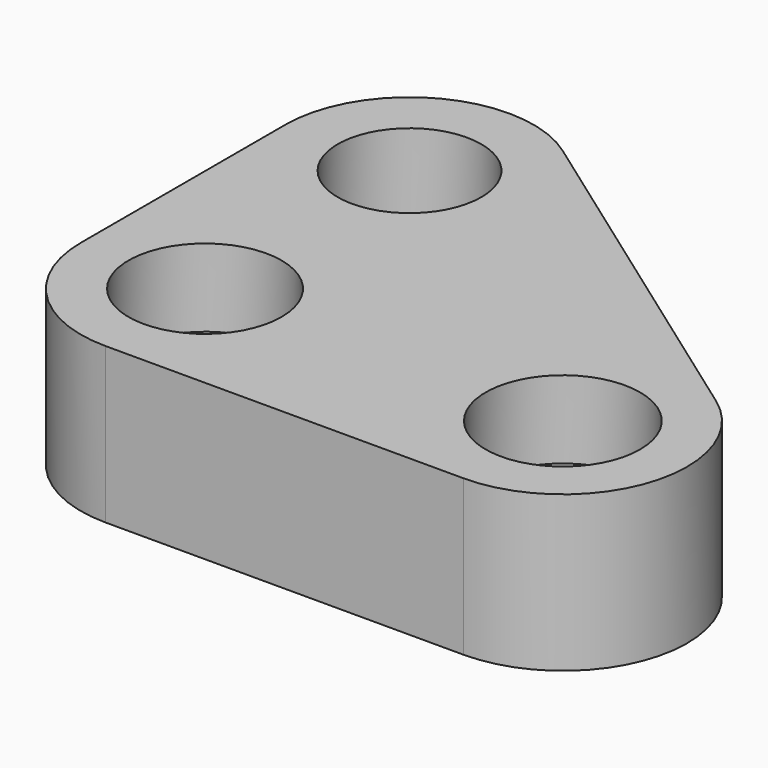
from build123d import *

# Parameters (mm, degrees)
F0_R     = 9.852424
F0_R_2   = 9.947133
F0_R_3   = 9.245087
F1_DEPTH = 20
F0_R_4   = 4.115098
F0_R_5   = 5.263248
F0_R_6   = 4.528776
F2_DEPTH = 10


with BuildPart() as f1:
    # F0 (on Top) → F1 (new body)
    with BuildSketch(Plane.XY):
        with BuildLine():
            ThreePointArc((0, 16), (4.686292, 4.686292), (16, 0))
            Line((16, 0), (62.072559, 0))
            ThreePointArc((62.072559, 0), (77.309287, 11.117161), (71.37237, 29.019736))
            Line((71.37237, 29.019736), (25.299811, 61.928706))
            ThreePointArc((25.299811, 61.928706), (8.678695, 63.135653), (0, 48.908971))
            Line((0, 48.908971), (0, 16))
        make_face()
        with Locations((16, 16)):
            Circle(F0_R, mode=Mode.SUBTRACT)
        with Locations((62.072559, 16)):
            Circle(F0_R_2, mode=Mode.SUBTRACT)
        with Locations((16, 48.908971)):
            Circle(F0_R_3, mode=Mode.SUBTRACT)
    extrude(amount=F1_DEPTH)

    # F0 (on Top) → F2 (join)
    with BuildSketch(Plane.XY):
        with BuildLine():
            ThreePointArc((0, 16), (4.686292, 4.686292), (16, 0))
            Line((16, 0), (62.072559, 0))
            ThreePointArc((62.072559, 0), (77.309287, 11.117161), (71.37237, 29.019736))
            Line((71.37237, 29.019736), (25.299811, 61.928706))
            ThreePointArc((25.299811, 61.928706), (8.678695, 63.135653), (0, 48.908971))
            Line((0, 48.908971), (0, 16))
        make_face()
        with Locations((16, 16)):
            Circle(F0_R, mode=Mode.SUBTRACT)
        with Locations((62.072559, 16)):
            Circle(F0_R_2, mode=Mode.SUBTRACT)
        with Locations((16, 48.908971)):
            Circle(F0_R_3, mode=Mode.SUBTRACT)
        with Locations((16, 48.908971)):
            Circle(F0_R_3)
        with Locations((16, 48.908971)):
            Circle(F0_R_4, mode=Mode.SUBTRACT)
        with Locations((16, 16)):
            Circle(F0_R)
        with Locations((16, 16)):
            Circle(F0_R_5, mode=Mode.SUBTRACT)
        with Locations((62.072559, 16)):
            Circle(F0_R_2)
        with Locations((62.072559, 16)):
            Circle(F0_R_6, mode=Mode.SUBTRACT)
    extrude(amount=F2_DEPTH)


solid = f1.part
